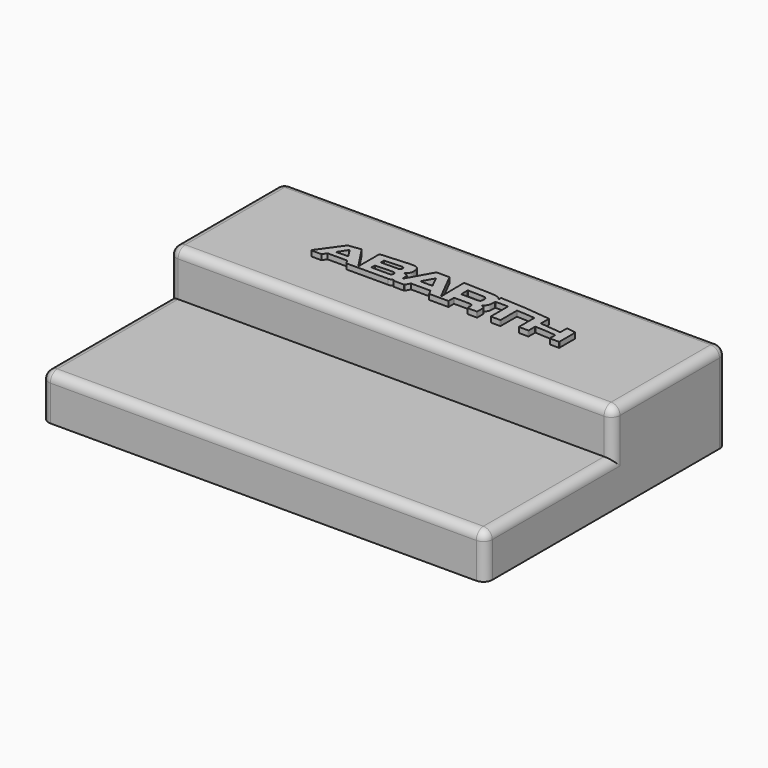
from build123d import *

# Parameters (mm, degrees)
F0_W     = 250
F0_H     = 80
F1_DEPTH = 25
F3_DEPTH = 3
F4_W     = 250
F4_H     = 90
F4_H_2   = 80
F5_DEPTH = 25
F6_R     = 5


with BuildPart() as f1:
    # F0 (on Top) → F1 (new body)
    with BuildSketch(Plane.XY):
        Rectangle(F0_W, F0_H)
    extrude(amount=F1_DEPTH)

    # F2 (on face) → F3 (join)
    with BuildSketch(Plane.XY.offset(25)):
        with BuildLine():
            ThreePointArc((-69.8006175541, -8.7419043521), (-69.8157974226, -8.9497106731), (-69.6379376296, -9.0582454117))
            Line((-69.6379376296, -9.0582454117), (-64.0573430855, -9.0582454117))
            ThreePointArc((-64.0573430855, -9.0582454117), (-63.9621852548, -9.0341572853), (-63.8899491627, -8.9676952843))
            Line((-63.8899491627, -8.9676952843), (-62.4970608678, -6.8373955391))
            ThreePointArc((-62.4970608678, -6.8373955391), (-62.4248247757, -6.7709335381), (-62.329666945, -6.7468454117))
            Line((-62.329666945, -6.7468454117), (-51.4755189067, -6.7468454117))
            ThreePointArc((-51.4755189067, -6.7468454117), (-51.3777558043, -6.7723679753), (-51.3049443518, -6.8424216537))
            Line((-51.3049443518, -6.8424216537), (-50.0187082969, -8.9434678792))
            ThreePointArc((-50.0187082969, -8.9434678792), (-49.9457790913, -9.0135874848), (-49.8478638367, -9.0390439391))
            Line((-49.8478638367, -9.0390439391), (-26.4968549574, -9.0075311066))
            add(Edge.make_bspline(
                [(-23.8160198011, -8.2099686583), (-24.0277128289, -8.3576700962), (-24.5170101552, -8.6852015515), (-25.5168592978, -8.9815940167), (-26.1755019721, -8.9970320181), (-26.4968549574, -9.0075311066)],
                knots=[0.0477448324, 0.0477448324, 0.0477448324, 0.0477448324, 0.3217851654, 0.6687293379, 1, 1, 1, 1], degree=3))
            ThreePointArc((-23.8160198011, -8.2099686583), (-23.6102326163, -8.1960700285), (-23.501595806, -8.3713970965))
            Line((-23.501595806, -8.3713970965), (-23.4964690091, -8.7666731369))
            ThreePointArc((-23.4964690091, -8.7666731369), (-23.438052051, -8.9053556639), (-23.2994895557, -8.9640567642))
            Line((-23.2994895557, -8.9640567642), (-17.4617979319, -9.0517407881))
            ThreePointArc((-17.4617979319, -9.0517407881), (-17.3578479879, -9.0244186699), (-17.2830515363, -8.9472333099))
            Line((-17.2830515363, -8.9472333099), (-15.8412198688, -6.2930860362))
            ThreePointArc((-15.8412198688, -6.2930860362), (-15.8044684997, -6.2548748195), (-15.753348534, -6.2408210185))
            Line((-15.753348534, -6.2408210185), (-4.9273755991, -6.2408210185))
            ThreePointArc((-4.9273755991, -6.2408210185), (-4.8225301227, -6.2705053525), (-4.7488073277, -6.3507467577))
            Line((-4.7488073277, -6.3507467577), (-3.4119773528, -9.0009535502))
            Line((-3.4119773528, -9.0009535502), (7.3006265333, -8.9886260428))
            ThreePointArc((7.3006265333, -8.9886260428), (7.4421279761, -8.9297366133), (7.5003953331, -8.7879778804))
            Line((7.5003953331, -8.7879778804), (7.4889953844, -5.2710937065))
            ThreePointArc((7.4889953844, -5.2710937065), (7.5473439561, -5.1292534483), (7.6889943337, -5.0704454117))
            Line((7.6889943337, -5.0704454117), (15.9401949847, -5.0704454117))
            add(Edge.make_bspline(
                [(18.1817449847, -6.7277954117), (18.1812939057, -6.4467437376), (18.1787663064, -5.8767450674), (17.514722564, -5.1486842131), (16.6076424575, -5.0965734338), (16.152329795, -5.0788395252), (15.9401949847, -5.0704454117)],
                knots=[0, 0, 0, 0, 0.2525016179, 0.5136309871, 0.7734960757, 1, 1, 1, 1], degree=3))
            Line((18.1817449847, -6.7277954117), (18.1817449847, -8.8201454117))
            ThreePointArc((18.1817449847, -8.8201454117), (18.2403236285, -8.9615667679), (18.3817449847, -9.0201454117))
            Line((18.3817449847, -9.0201454117), (23.4617949847, -9.0201454117))
            ThreePointArc((23.4617949847, -9.0201454117), (23.603216341, -8.9615667679), (23.6617949847, -8.8201454117))
            Line((23.6617949847, -8.8201454117), (23.6617949847, -5.0704454117))
            add(Edge.make_bspline(
                [(23.6617949847, -5.0704454117), (23.6488970339, -4.8896913978), (23.6260766845, -4.5201279604), (23.357752753, -3.9609707565), (22.8429549977, -3.5178369213), (22.1885651412, -3.336127135), (22.0028183026, -3.2974275949), (22.0003194413, -3.2969112491)],
                knots=[0, 0, 0, 0, 0.1996102688, 0.4070498025, 0.6327874179, 0.8783429384, 0.881729947, 0.881729947, 0.881729947, 0.881729947], degree=3))
            ThreePointArc((22.0003194413, -3.2969112491), (21.7490924606, -3.0215024907), (21.9328697749, -2.6971710571))
            add(Edge.make_bspline(
                [(24.0794406868, 3.1229421521), (24.0577781804, 2.2631763115), (24.0390820008, 0.710229468), (23.8061124068, -0.7926326347), (22.7652118531, -2.2728627524), (22.1558895835, -2.5954953619), (21.9328697749, -2.6971710571)],
                knots=[0.0077710356, 0.0077710356, 0.0077710356, 0.0077710356, 0.3050186296, 0.5462388266, 0.806804799, 0.9591711478, 0.9591711478, 0.9591711478, 0.9591711478], degree=3))
            ThreePointArc((24.0794406868, 3.1229421521), (24.1397482848, 3.2610959151), (24.279377234, 3.3179045866))
            Line((24.279377234, 3.3179045866), (31.0564987999, 3.3179045883))
            ThreePointArc((31.0564987999, 3.3179045883), (31.1978834377, 3.2593626535), (31.256498773, 3.1180084304))
            Line((31.256498773, 3.1180084304), (31.2626411965, -8.7122992538))
            ThreePointArc((31.2626411965, -8.7122992538), (31.3212565318, -8.8536534769), (31.4626411695, -8.9121954117))
            Line((31.4626411695, -8.9121954117), (36.5554949703, -8.9121954117))
            ThreePointArc((36.5554949703, -8.9121954117), (36.6969163266, -8.8536167679), (36.7554949703, -8.7121954116))
            Line((36.7554949703, -8.7121954116), (36.7554949623, 2.4743047122))
            ThreePointArc((36.7554949623, 2.4743047122), (36.8160997764, 2.6177236168), (36.9611847839, 2.6742237608))
            add(Edge.make_bspline(
                [(36.9611847839, 2.6742237608), (38.7495946478, 2.6233244933), (42.2224802497, 2.5383483636), (45.3907778333, 2.1838139726), (46.9274886714, 2.0185093867)],
                knots=[0.0073937107, 0.0073937107, 0.0073937107, 0.0073937107, 0.5145341109, 0.9925388554, 0.9925388554, 0.9925388554, 0.9925388554], degree=3))
            ThreePointArc((46.9274886714, 2.0185093867), (47.0548512361, 1.9533445514), (47.1060979634, 1.8197726547))
            Line((47.1060979634, 1.8197726547), (47.1122289759, -8.7440614872))
            ThreePointArc((47.1122289759, -8.7440614872), (47.1708486308, -8.8854078009), (47.3122289422, -8.9439454117))
            Line((47.3122289422, -8.9439454117), (52.3733449429, -8.9439454117))
            ThreePointArc((52.3733449429, -8.9439454117), (52.5147662992, -8.8853667679), (52.5733449429, -8.7439454117))
            Line((52.5733449429, -8.7439454117), (52.5733449429, -4.3820132826))
            ThreePointArc((52.5733449429, -4.3820132826), (52.6354743053, -4.2371281996), (52.7832618157, -4.1822592949))
            add(Edge.make_bspline(
                [(64.345828739, -4.9742414516), (63.0363710378, -4.8326594302), (60.3498092555, -4.5273024766), (56.0444649756, -4.342855526), (53.8058889328, -4.2330280587), (52.7832618157, -4.1822592949)],
                knots=[0.0059558279, 0.0059558279, 0.0059558279, 0.0059558279, 0.341579628, 0.6941788862, 0.9924088178, 0.9924088178, 0.9924088178, 0.9924088178], degree=3))
            ThreePointArc((64.345828739, -4.9742414516), (64.4730515949, -5.0393599183), (64.524329261, -5.1727640814))
            Line((64.524329261, -5.1727640814), (64.5300770314, -8.7823638826))
            ThreePointArc((64.5300770314, -8.7823638826), (64.588768063, -8.9235793196), (64.7300767779, -8.9820454117))
            Line((64.7300767779, -8.9820454117), (69.6833336572, -8.9820454117))
            ThreePointArc((69.6833336572, -8.9820454117), (69.8247943563, -8.9234274141), (69.8833336262, -8.7819341177))
            Line((69.8833336262, -8.7819341177), (69.8771899317, 2.2585460468))
            ThreePointArc((69.8771899317, 2.2585460468), (69.8293704278, 2.3882080398), (69.7088887946, 2.4559067358))
            Line((69.7088887946, 2.4559067358), (64.7684439614, 3.248962684))
            ThreePointArc((64.7684439614, 3.248962684), (64.6070141894, 3.2037072679), (64.5367451294, 3.0514907011))
            Line((64.5367451294, 3.0514907011), (64.5367451294, -1.2975066782))
            ThreePointArc((64.5367451294, -1.2975066782), (64.4688881449, -1.4476340357), (64.3113628947, -1.4958894954))
            add(Edge.make_bspline(
                [(52.8211230924, -0.3502708036), (55.1396559473, -0.5330948212), (59.4137784096, -0.8709988975), (62.7749094211, -1.2993068317), (64.3113628947, -1.4958894954)],
                knots=[0.0053691865, 0.0053691865, 0.0053691865, 0.0053691865, 0.539738385, 0.9915915948, 0.9915915948, 0.9915915948, 0.9915915948], degree=3))
            ThreePointArc((52.8211230924, -0.3502708036), (52.6899702244, -0.2866387871), (52.6368449544, -0.1508897023))
            Line((52.6368449544, -0.1508897023), (52.6368449877, 5.2726565917))
            ThreePointArc((52.6368449877, 5.2726565917), (52.5858247662, 5.4060920664), (52.4587947305, 5.4714484659))
            add(Edge.make_bspline(
                [(52.4587947305, 5.4714484659), (47.8062215384, 5.9851655696), (38.4541980543, 7.0963478272), (28.8716740922, 7.4741854854), (24.0562979615, 7.7031113959)],
                knots=[0.0023201161, 0.0023201161, 0.0023201161, 0.0023201161, 0.4969653037, 0.9972171587, 0.9972171587, 0.9972171587, 0.9972171587], degree=3))
            ThreePointArc((24.0562979615, 7.7031113959), (23.9066526561, 7.6460204617), (23.8468880323, 7.4974227432))
            Line((23.8468880323, 7.4974227432), (23.8773995255, 6.4660835813))
            ThreePointArc((23.8773995255, 6.4660835813), (23.7375794208, 6.269410552), (23.510279849, 6.350434294))
            add(Edge.make_bspline(
                [(2.4825799108, 8.7783971682), (7.6550106902, 8.5820978033), (15.6601132958, 8.2631632542), (19.8934957215, 8.2626366281), (22.375971447, 7.4906404073), (23.1673287168, 6.8444488178), (23.4261475565, 6.4786296688), (23.510279849, 6.350434294)],
                knots=[0.0019920982, 0.0019920982, 0.0019920982, 0.0019920982, 0.404240995, 0.6257944787, 0.7941895233, 0.906783881, 0.9666231288, 0.9666231288, 0.9666231288, 0.9666231288], degree=3))
            ThreePointArc((2.4825799108, 8.7783971682), (2.1880813614, 8.6649981869), (2.0674454518, 8.3733893703))
            Line((2.0674454518, 8.3733893703), (2.2708167928, -6.9869599154))
            ThreePointArc((2.2708167928, -6.9869599154), (2.1187124638, -7.1837923505), (1.8925421617, -7.0802272557))
            Line((1.8925421617, -7.0802272557), (-6.2255517067, 8.8919574284))
            ThreePointArc((-6.2255517067, 8.8919574284), (-6.2990276617, 8.9716715428), (-6.4033013844, 9.0013371244))
            Line((-6.4033013844, 9.0013371244), (-13.5060566095, 9.0206027436))
            ThreePointArc((-13.5060566095, 9.0206027436), (-13.6073516624, 8.9933718771), (-13.6809341969, 8.9186201651))
            Line((-13.6809341969, 8.9186201651), (-21.4808437504, -4.9545081826))
            ThreePointArc((-21.4808437504, -4.9545081826), (-21.5936839236, -5.0021482571), (-21.6680087965, -4.9047917235))
            add(Edge.make_bspline(
                [(-21.6680087965, -4.9047917235), (-21.663892325, -4.3234792087), (-21.6564638287, -3.2239036175), (-21.6755519796, -2.0302900933), (-22.0348042787, -1.2601445671), (-23.0878919181, -0.7043022138), (-23.6273759621, -0.629453763), (-23.8206001582, -0.6131615091)],
                knots=[0.0364399826, 0.0364399826, 0.0364399826, 0.0364399826, 0.2569642542, 0.4601558977, 0.6237399985, 0.8289860866, 0.9497453257, 0.9497453257, 0.9497453257, 0.9497453257], degree=3))
            ThreePointArc((-23.8206001582, -0.6131615091), (-24.10596377, -0.3552350154), (-23.9332069184, -0.0115585144))
            add(Edge.make_bspline(
                [(-23.9332069184, -0.0115585144), (-23.6626442789, 0.1205399636), (-22.9409938804, 0.5302956328), (-21.9158047362, 2.4807303887), (-22.08212947, 4.5026098033), (-22.4352329089, 6.4996459859), (-23.830712554, 7.6095568267), (-25.2865980316, 8.0074094848), (-28.3880338805, 7.9494378425), (-29.6066201468, 7.8579948629), (-30.1326752115, 7.827426247)],
                knots=[0.0192155949, 0.0192155949, 0.0192155949, 0.0192155949, 0.0990226888, 0.2332148538, 0.3642782687, 0.4915532531, 0.606939336, 0.7194468786, 0.8789856288, 1, 1, 1, 1], degree=3))
            Line((-30.1326752115, 7.827426247), (-43.8685321668, 6.8685918536))
            ThreePointArc((-43.8685321668, 6.8685918536), (-44.0008675024, 6.8054858786), (-44.0546050153, 6.6690773567))
            Line((-44.0546050153, 6.6690773567), (-44.0546050153, -7.4008750792))
            ThreePointArc((-44.0546050153, -7.4008750792), (-44.1971436356, -7.5924427952), (-44.4215869137, -7.5109525318))
            Line((-44.4215869137, -7.5109525318), (-52.9775975502, 5.4680805524))
            ThreePointArc((-52.9775975502, 5.4680805524), (-53.0610930745, 5.5397447442), (-53.1698583776, 5.5563991072))
            Line((-53.1698583776, 5.5563991072), (-60.1307107832, 4.6694715159))
            ThreePointArc((-60.1307107832, 4.6694715159), (-60.2079764117, 4.6427863519), (-60.2681117788, 4.5874165682))
            Line((-60.2681117788, 4.5874165682), (-69.8006175541, -8.7419043521))
        make_face()
        with BuildLine():
            Line((-53.927985773, -3.2774916433), (-59.9805253195, -3.5579597709))
            ThreePointArc((-59.9805253195, -3.5579597709), (-60.1633386901, -3.4575647028), (-60.1574108729, -3.2490826672))
            Line((-60.1574108729, -3.2490826672), (-56.9930887937, 1.61314862))
            ThreePointArc((-56.9930887937, 1.61314862), (-56.8240129578, 1.7040518893), (-56.6562712146, 1.6107097752))
            Line((-56.6562712146, 1.6107097752), (-53.7680537474, -2.9710533845))
            ThreePointArc((-53.7680537474, -2.9710533845), (-53.7599388022, -3.1702425115), (-53.927985773, -3.2774916433))
        make_face(mode=Mode.SUBTRACT)
        with BuildLine():
            Line((-38.72615095, -2.7856870357), (-28.934970307, -2.4477823399))
            add(Edge.make_bspline(
                [(-28.9864519563, -5.2277413424), (-28.7421200012, -5.2390422341), (-28.2478012583, -5.2619055661), (-27.6597253539, -4.7369524452), (-27.2115247481, -3.6768782357), (-27.6697700334, -2.7665457794), (-28.3772132372, -2.4594687297), (-28.7581156354, -2.4514878826), (-28.934970307, -2.4477823399)],
                knots=[0, 0, 0, 0, 0.1585022341, 0.320672853, 0.5177620211, 0.6991801395, 0.8603280056, 1, 1, 1, 1], degree=3))
            Line((-28.9864519563, -5.2277413424), (-38.8002869136, -5.2109127988))
            ThreePointArc((-38.8002869136, -5.2109127988), (-38.9442715344, -5.1493672399), (-38.9997854193, -5.0029512728))
            Line((-38.9997854193, -5.0029512728), (-38.9190942917, -2.9776062201))
            ThreePointArc((-38.9190942917, -2.9776062201), (-38.8602973516, -2.8437708498), (-38.72615095, -2.7856870357))
        make_face(mode=Mode.SUBTRACT)
        with BuildLine():
            Line((-7.3144906331, -2.1182808787), (-13.5497251685, -2.1182808787))
            ThreePointArc((-13.5497251685, -2.1182808787), (-13.7221792628, -2.0195704901), (-13.7244032505, -1.8208767324))
            Line((-13.7244032505, -1.8208767324), (-10.4311450991, 4.0850321983))
            ThreePointArc((-10.4311450991, 4.0850321983), (-10.2518158462, 4.1875739613), (-10.0774486712, 4.0768044604))
            Line((-10.0774486712, 4.0768044604), (-7.1354722871, -1.8291044703))
            ThreePointArc((-7.1354722871, -1.8291044703), (-7.1444387562, -2.0235536632), (-7.3144906331, -2.1182808787))
        make_face(mode=Mode.SUBTRACT)
        with BuildLine():
            Line((-38.7501558481, 1.2627440029), (-38.672634869, 3.208518415))
            ThreePointArc((-38.672634869, 3.208518415), (-38.6148243003, 3.3413657769), (-38.4824813046, 3.4003218188))
            Line((-38.4824813046, 3.4003218188), (-29.2095335152, 3.8500264991))
            add(Edge.make_bspline(
                [(-29.2095335152, 3.8500264991), (-28.8702581839, 3.8525443969), (-28.2454297837, 3.8571899841), (-27.7178982278, 3.3074688267), (-27.6012823436, 2.654156208), (-27.730187678, 1.931844718), (-28.1620472703, 1.4426143496), (-28.5250741144, 1.2202013655), (-28.8678210812, 1.1876550704), (-29.0696465608, 1.175876103), (-29.1699914214, 1.185727283)],
                knots=[0, 0, 0, 0, 0.1619590641, 0.2987250878, 0.4320744424, 0.5731154042, 0.70581686, 0.81274748, 0.9086165425, 1, 1, 1, 1], degree=3))
            Line((-29.1699914214, 1.185727283), (-38.5475223336, 1.0548016728))
            ThreePointArc((-38.5475223336, 1.0548016728), (-38.6935523724, 1.1152010967), (-38.7501558481, 1.2627440029))
        make_face(mode=Mode.SUBTRACT)
        with BuildLine():
            Line((7.8226273927, -0.2253238481), (7.8226273927, 4.0308541918))
            ThreePointArc((7.8226273927, 4.0308541918), (7.8829267509, 4.1739755762), (8.0274646994, 4.2307956845))
            Line((8.0274646994, 4.2307956845), (16.4878314409, 4.0261088643))
            add(Edge.make_bspline(
                [(16.4878314409, 4.0261088643), (16.8930305258, 4.0008530608), (17.6658525171, 3.9526835532), (18.5071162142, 3.3684809438), (18.7951120396, 2.5750384145), (18.7861345569, 2.2385309516), (18.7822451863, 2.0927437354)],
                knots=[0, 0, 0, 0, 0.2976268915, 0.5676533228, 0.8126917663, 1, 1, 1, 1], degree=3))
            Line((18.7822451863, 2.0927437354), (18.7822451863, 0.84653867))
            add(Edge.make_bspline(
                [(18.7822451863, 0.84653867), (18.7862136857, 0.7175110184), (18.7954206024, 0.4181669229), (18.3814642943, -0.229575981), (17.5183144136, -0.5267232592), (16.9320513384, -0.5274289831), (16.6392421398, -0.5277814571)],
                knots=[0, 0, 0, 0, 0.1897759821, 0.4402801957, 0.7204478429, 1, 1, 1, 1], degree=3))
            Line((16.6392421398, -0.5277814571), (8.0202497482, -0.4253097146))
            ThreePointArc((8.0202497482, -0.4253097146), (7.8803678959, -0.3659020667), (7.8226273927, -0.2253238481))
        make_face(mode=Mode.SUBTRACT)
    extrude(amount=F3_DEPTH)

    # F4 (on face) → F5 (join)
    with BuildSketch(Plane(origin=(0, 0, 0), x_dir=(1, 0, 0), z_dir=(0, 0, -1))):
        with Locations((0, 85)):
            Rectangle(F4_W, F4_H)
        Rectangle(F4_W, F4_H_2)
    extrude(amount=F5_DEPTH)

    # F6
    f6_edges = [f1.edges().sort_by_distance(p)[0] for p in [
        (0, -40, 25),
        (125, 0, 25),
        (-125, 0, 25),
        (0, 40, 25),
        (125, 40, 0),
        (125, -40, 12.5),
        (125, -85, 0),
        (-125, -40, 12.5),
        (-125, -85, 0),
        (-125, 40, 0),
        (-125, -130, -12.5),
        (0, -130, 0),
        (125, -130, -12.5),
    ]]
    fillet(f6_edges, radius=F6_R)


solid = f1.part
